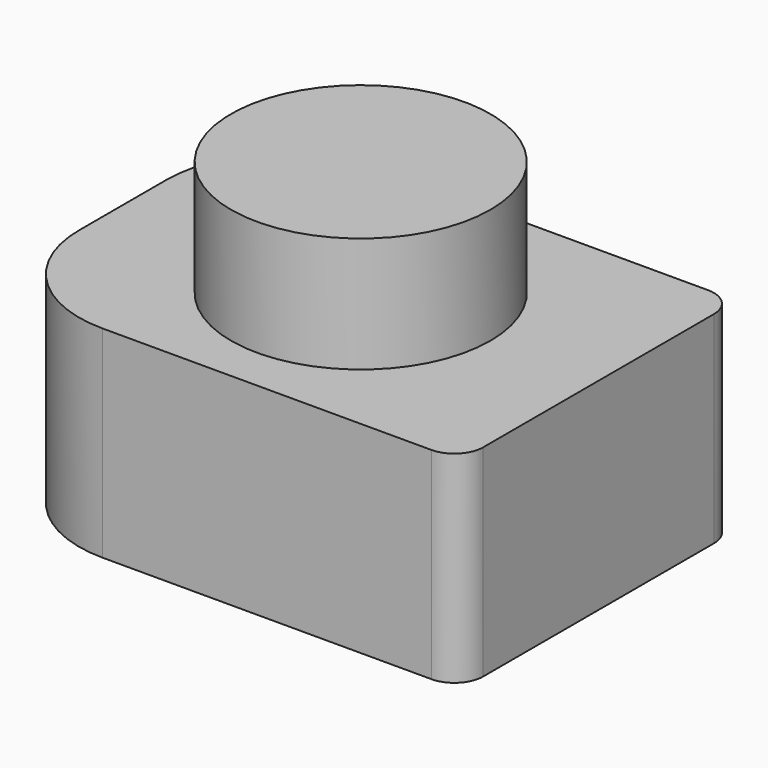
from build123d import *

# Parameters (mm, degrees)
CYLINDER_R     = 0.9
CYLINDER_DEPTH = 0.8
BOX_W          = 3.3
BOX_H          = 2.4
BOX_DEPTH      = 1.4
FILLET_R       = 0.2
FILLET001_R    = 0.82


with BuildPart() as cylinder:
    # Cylinder → Cylinder (new body)
    with BuildSketch(Plane.XY):
        Circle(CYLINDER_R)
    extrude(amount=CYLINDER_DEPTH)


with BuildPart() as fillet001:
    # Box → Box (new body)
    with BuildSketch(Plane(origin=(-1.65, -1.2, -1.4), x_dir=(1, 0, 0), z_dir=(0, 0, 1))):
        with Locations((1.65, 1.2)):
            Rectangle(BOX_W, BOX_H)
    extrude(amount=BOX_DEPTH)

    # Fillet
    fillet_edges = [fillet001.edges().sort_by_distance(p)[0] for p in [
        (1.65, -1.2, -0.7),
        (1.65, 1.2, -0.7),
    ]]
    fillet(fillet_edges, radius=FILLET_R)

    # Fillet001
    fillet001_edges = [fillet001.edges().sort_by_distance(p)[0] for p in [
        (-1.65, 1.2, -0.7),
        (-1.65, -1.2, -0.7),
    ]]
    fillet(fillet001_edges, radius=FILLET001_R)


solid = Compound([cylinder.part, fillet001.part])
